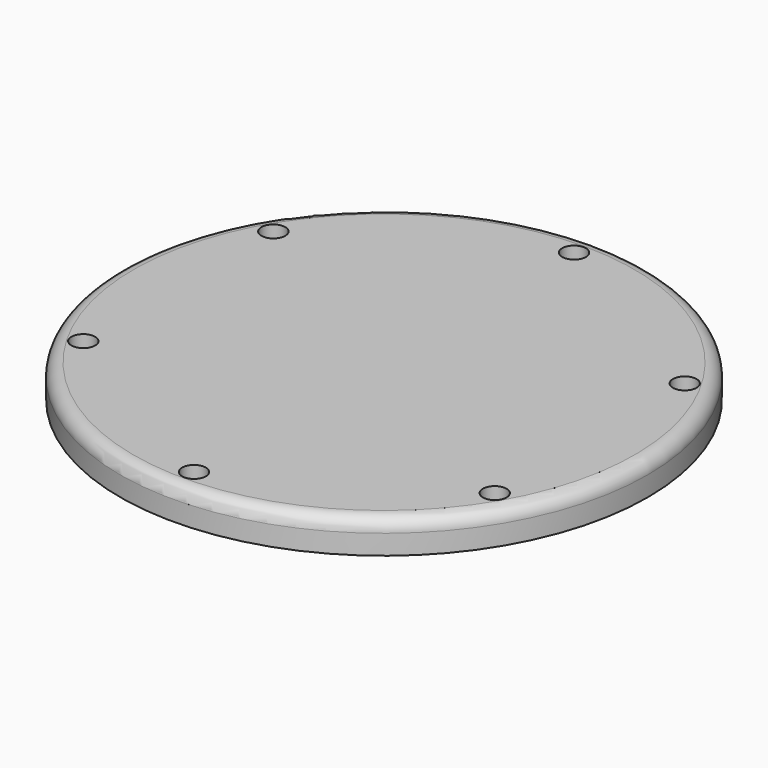
from build123d import *

# Parameters (mm, degrees)
F0_R     = 20
F0_R_2   = 19
F1_DEPTH = 1
F2_R     = 20
F3_DEPTH = 1.5
F4_R     = 0.5
F5_DEPTH = 2.501
F6_R     = 0.9
F7_DEPTH = 1


with BuildPart() as f1:
    # F0 (on Top) → F1 (new body)
    with BuildSketch(Plane.XY):
        Circle(F0_R)
        Circle(F0_R_2, mode=Mode.SUBTRACT)
    extrude(amount=F1_DEPTH)

    # F2 (on face) → F3 (join)
    with BuildSketch(Plane.XY.offset(1)):
        Circle(F2_R)
    extrude(amount=F3_DEPTH)

    # F4 (on face) → F5 (cut, through all)
    with BuildSketch(Plane.XY.offset(2.5)):
        with Locations((0, 18)):
            Circle(F4_R)
        with Locations((15.5884572681, 9)):
            Circle(F4_R)
        with Locations((15.5884572681, -9)):
            Circle(F4_R)
        with Locations((0, -18)):
            Circle(F4_R)
        with Locations((-15.5884572681, -9)):
            Circle(F4_R)
        with Locations((-15.5884572681, 9)):
            Circle(F4_R)
    extrude(amount=-F5_DEPTH, mode=Mode.SUBTRACT)

    # F6 (on face) → F7 (cut)
    with BuildSketch(Plane.XY.offset(2.5)):
        with Locations((0, 18)):
            Circle(F6_R)
        with Locations((-15.5884572681, 9)):
            Circle(F6_R)
        with Locations((-15.5884572681, -9)):
            Circle(F6_R)
        with Locations((0, -18)):
            Circle(F6_R)
        with Locations((15.5884572681, -9)):
            Circle(F6_R)
        with Locations((15.5884572681, 9)):
            Circle(F6_R)
    extrude(amount=-F7_DEPTH, mode=Mode.SUBTRACT)

    # F8 (on Right) → F9 (revolve, cut)
    with BuildSketch(Plane.YZ):
        with BuildLine():
            Line((20, 1.5), (20, 2.5))
            Line((20, 2.5), (19, 2.5))
            ThreePointArc((19, 2.5), (19.7071067812, 2.2071067812), (20, 1.5))
        make_face()
    revolve(axis=Axis((0, 0, 3.847687738), (0, 0, 1)), mode=Mode.SUBTRACT)


solid = f1.part
